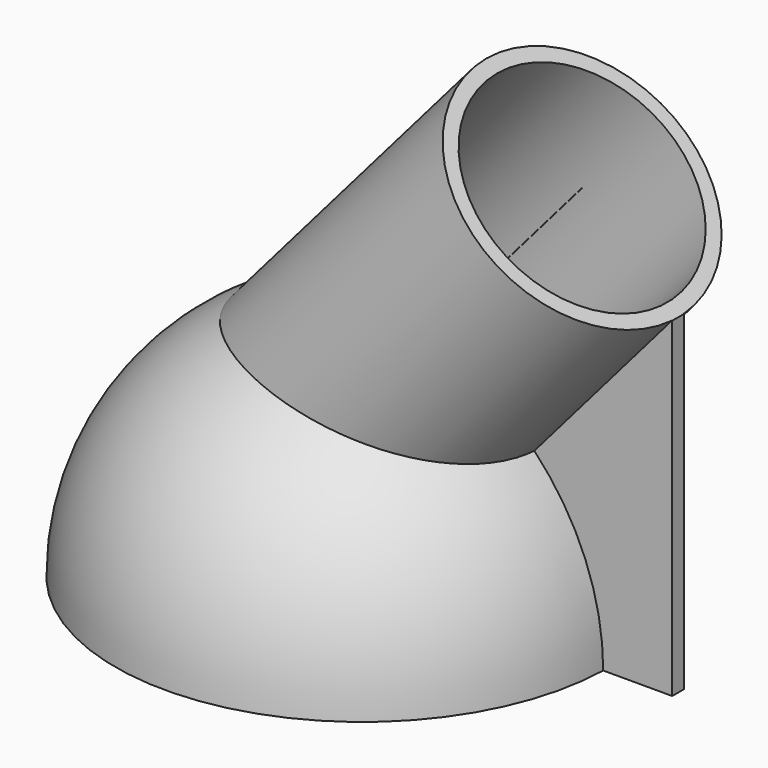
from build123d import *

# Parameters (mm, degrees)
F5_DEPTH = 1


with BuildPart() as f1:
    # F0 (on Front) → F1 (revolve)
    with BuildSketch(Plane.XZ):
        Polygon((-9.0428221142, 11.4360648491), (4.2035517583, 0), (43.6141065063, 45.6491764956), (30.3677326338, 57.0852413447), align=None)
    revolve(axis=Axis((10.6624552598, 0, 34.2606530969), (0.6534894199, 0, 0.7569356499)))

    # F2 (on Front) → F3 (revolve)
    with BuildSketch(Plane.XZ):
        with BuildLine():
            ThreePointArc((34.096867421, 0), (24.1101261706, 24.1101261706), (0, 34.096867421))
            Line((0, 34.096867421), (0, 0))
            Line((0, 0), (34.096867421, 0))
        make_face()
    revolve(axis=Axis((0, 0, 17.0484337105), (0, 0, -1)))

    # F4 (on Front) → F5 (join, symmetric)
    with BuildSketch(Plane.XZ):
        Polygon((0, 22.3168283701), (0, 0), (43.6141065063, 0), (43.6141065063, 45.6491764956), (30.1666682649, 57.2588273528), align=None)
    extrude(amount=F5_DEPTH, both=True)

    # F6 (on Front) → F7 (revolve, cut)
    with BuildSketch(Plane.XZ):
        Polygon((-24.1225756619, -6.0089087161), (30.3569104257, 57.0945845412), (18.6352300611, 67.2143273539), (-17.6638786383, 25.1691333633), align=None)
    revolve(axis=Axis((10.6624552598, 0, 34.2606530969), (0.6534894199, 0, 0.7569356499)), mode=Mode.SUBTRACT)


solid = f1.part
